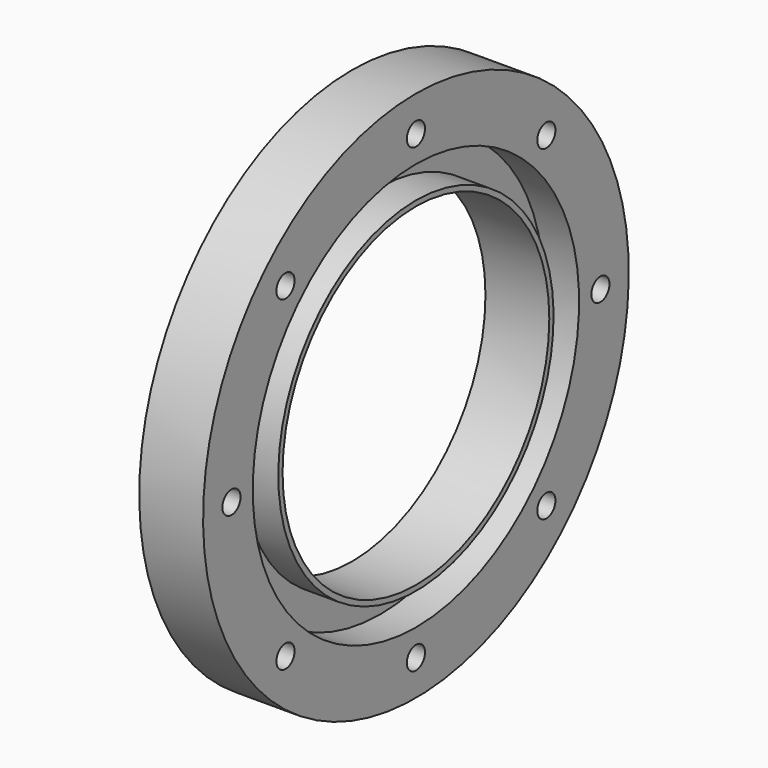
from build123d import *

# Parameters (mm, degrees)
F3_R     = 3.2
F4_DEPTH = 18
F5_COUNT = 8


with BuildPart() as f2:
    # F1 (on Front) → F2 (revolve)
    with BuildSketch(Plane.XZ):
        Polygon((0, 75), (0, 47), (18, 47), (18, 48.5), (8, 48.5), (8, 57.5), (18, 57.5), (18, 75), align=None)
    revolve(axis=Axis((9, 0, 0), (1, 0, 0)))


with BuildPart() as f4:
    # F3 (on face) → F4 (new body, through all)
    with BuildSketch(Plane.YZ.offset(18)):
        with Locations((0, 65)):
            Circle(F3_R)
    extrude(amount=-F4_DEPTH)


with BuildPart() as f5_1:
    # F5: instance of F4
    add(f4.part.rotate(Axis((18, 0, 0), (1, 0, 0)), 1 * 360 / F5_COUNT))


with BuildPart() as f5_2:
    # F5: instance of F4
    add(f4.part.rotate(Axis((18, 0, 0), (1, 0, 0)), 2 * 360 / F5_COUNT))


with BuildPart() as f5_3:
    # F5: instance of F4
    add(f4.part.rotate(Axis((18, 0, 0), (1, 0, 0)), 3 * 360 / F5_COUNT))


with BuildPart() as f5_4:
    # F5: instance of F4
    add(f4.part.rotate(Axis((18, 0, 0), (1, 0, 0)), 4 * 360 / F5_COUNT))


with BuildPart() as f5_5:
    # F5: instance of F4
    add(f4.part.rotate(Axis((18, 0, 0), (1, 0, 0)), 5 * 360 / F5_COUNT))


with BuildPart() as f5_6:
    # F5: instance of F4
    add(f4.part.rotate(Axis((18, 0, 0), (1, 0, 0)), 6 * 360 / F5_COUNT))


with BuildPart() as f5_7:
    # F5: instance of F4
    add(f4.part.rotate(Axis((18, 0, 0), (1, 0, 0)), 7 * 360 / F5_COUNT))


with BuildPart() as f2_1:
    add(f2.part)

    # F6: cut F4, F5_1, F5_2, F5_3, F5_4, F5_5, F5_6, F5_7
    add(f4.part, mode=Mode.SUBTRACT)
    add(f5_1.part, mode=Mode.SUBTRACT)
    add(f5_2.part, mode=Mode.SUBTRACT)
    add(f5_3.part, mode=Mode.SUBTRACT)
    add(f5_4.part, mode=Mode.SUBTRACT)
    add(f5_5.part, mode=Mode.SUBTRACT)
    add(f5_6.part, mode=Mode.SUBTRACT)
    add(f5_7.part, mode=Mode.SUBTRACT)


solid = f2_1.part
